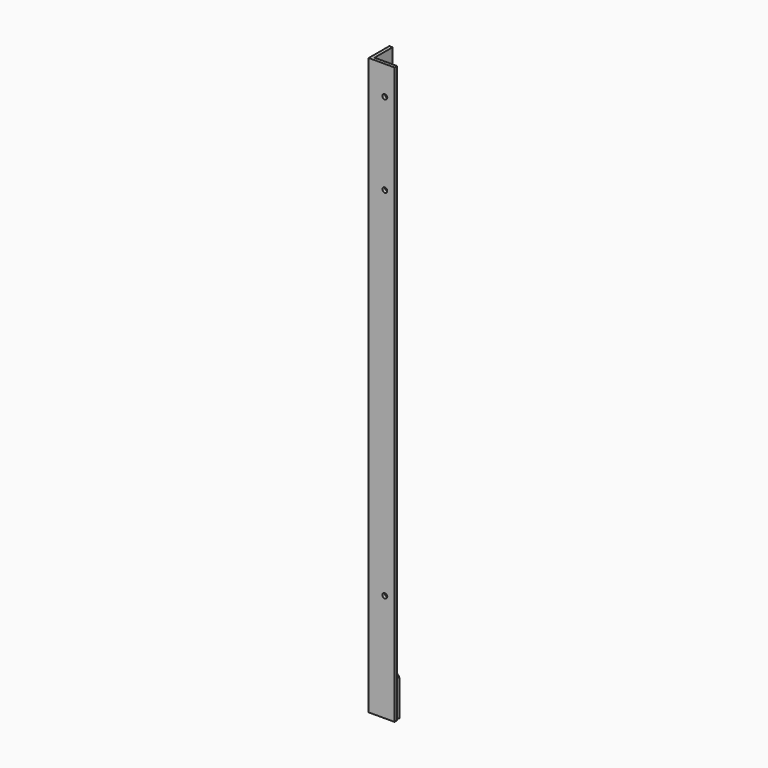
from build123d import *

# Parameters (mm, degrees)
F1_DEPTH = 568.325
F2_R     = 2.38125
F3_DEPTH = 3.175
F4_R     = 2.38125
F5_DEPTH = 3.175
F7_DEPTH = 3.175
F9_DEPTH = 35.56


with BuildPart() as f1:
    # F0 (on Top) → F1 (new body)
    with BuildSketch(Plane.XY):
        Polygon((0, 25.4), (0, 0), (25.4, 0), (25.4, 3.175), (3.175, 3.175), (3.175, 25.4), align=None)
    extrude(amount=F1_DEPTH)

    # F2 (on face) → F3 (cut)
    with BuildSketch(Plane(origin=(0, 0, 0), x_dir=(0, -1, 0), z_dir=(-1, 0, 0))):
        with Locations((-15.875, 517.525)):
            Circle(F2_R)
        with Locations((-15.875, 212.725)):
            Circle(F2_R)
    extrude(amount=-F3_DEPTH, mode=Mode.SUBTRACT)

    # F4 (on face) → F5 (cut)
    with BuildSketch(Plane.XZ):
        with Locations((15.875, 458.7875)):
            Circle(F4_R)
        with Locations((15.875, 106.3625)):
            Circle(F4_R)
        with Locations((15.875, 539.75)):
            Circle(F4_R)
    extrude(amount=-F5_DEPTH, mode=Mode.SUBTRACT)

    # F6 (on face) → F7 (cut)
    with BuildSketch(Plane(origin=(0, 0, 0), x_dir=(0, -1, 0), z_dir=(-1, 0, 0))):
        Polygon((-25.4, 0), (-4.7625, 0), (-4.7625, 38.1), (-25.4, 46.4380912357), align=None)
    extrude(amount=-F7_DEPTH, mode=Mode.SUBTRACT)

    # F8 (on face) → F9 (join)
    with BuildSketch(Plane(origin=(0, 0, 0), x_dir=(1, 0, 0), z_dir=(0, 0, -1))):
        with BuildLine():
            ThreePointArc((13.0437542426, -9.5063361704), (12.8721302689, -9.520330609), (12.7, -9.525))
            Line((12.7, -9.525), (12.7, -12.7))
            ThreePointArc((12.7, -12.7), (13.0442605378, -12.6906612181), (13.3875084853, -12.6626723408))
            ThreePointArc((13.3875084853, -12.6626723408), (19.5337619369, -10.8104975605), (24.6005143968, -6.8690508185))
            Line((24.6005143968, -6.8690508185), (22.225, -4.7625))
            ThreePointArc((22.225, -4.7625), (18.0763265852, -7.9897694283), (13.0437542426, -9.5063361704))
        make_face()
        with BuildLine():
            ThreePointArc((12.7, -9.525), (12.5278697311, -9.520330609), (12.3562457574, -9.5063361704))
            ThreePointArc((12.3562457574, -9.5063361704), (7.3236734148, -7.9897694283), (3.175, -4.7625))
            Line((3.175, -4.7625), (0, -4.7625))
            ThreePointArc((0, -4.7625), (0.2065927495, -5.8890803989), (0.7994856032, -6.8690508185))
            ThreePointArc((0.7994856032, -6.8690508185), (5.8662380631, -10.8104975605), (12.0124915147, -12.6626723408))
            ThreePointArc((12.0124915147, -12.6626723408), (12.3557394622, -12.6906612181), (12.7, -12.7))
            Line((12.7, -12.7), (12.7, -9.525))
        make_face()
    extrude(amount=-F9_DEPTH)


solid = f1.part
